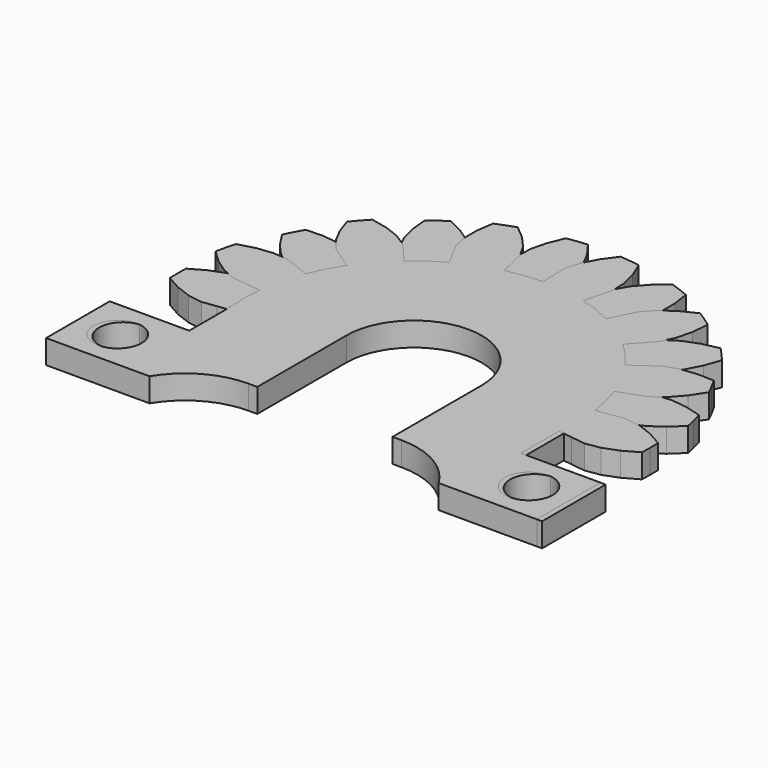
from build123d import *

# Parameters (mm, degrees)
F1_DEPTH  = 1.5
F3_DEPTH  = 1.5
F4_W      = 6.004848
F4_H      = 1.5
F4_W_2    = 6.339723
F5_DEPTH  = 8
F6_W      = 5
F6_H      = 1.5
F7_DEPTH  = 5
F8_R      = 1.5
F9_DEPTH  = 1.5
F10_W     = 5
F10_H     = 5
F10_R     = 1.5
F11_DEPTH = 1.5
F13_DEPTH = 1.5


with BuildPart() as f1:
    # F0 (on Top) → F1 (new body)
    with BuildSketch(Plane.XY):
        Polygon((10.589723, -1.110145), (10.648575, 0), (10.589723, 1.110145), (11.484679, 1.205301), (12.378936, 1.30701), (13.242702, 1.66848), (14.069737, 2.238581), (14.851424, 2.970895), (14.712702, 3.589735), (14.547945, 4.202158), (13.515472, 4.487322), (12.51823, 4.607779), (11.58542, 4.526432), (10.746328, 4.200909), (9.909663, 3.869259), (9.445863, 4.879593), (8.877842, 5.835228), (9.626065, 6.335391), (10.370624, 6.841032), (10.967468, 7.56251), (11.434831, 8.451652), (11.786658, 9.463352), (11.376236, 9.94684), (10.945744, 10.412547), (9.899012, 10.185233), (8.960019, 9.828451), (8.17186, 9.322923), (7.580159, 8.644742), (6.993455, 7.962262), (6.113255, 8.641331), (5.166192, 9.223531), (5.596273, 10.014119), (6.020563, 10.807856), (6.213755, 11.72406), (6.21438, 12.728551), (6.055747, 13.787869), (5.467648, 14.025244), (4.870041, 14.237547), (4.048845, 13.54983), (3.383212, 12.797544), (2.920263, 11.983645), (2.711504, 11.108168), (2.509167, 10.231207), (1.41421, 10.423443), (0.305065, 10.498834), (0.318479, 11.398734), (0.325301, 12.29873), (0.070583, 13.19977), (-0.395674, 14.089492), (-1.028426, 14.953751), (-1.659475, 14.890633), (-2.287292, 14.800897), (-2.694828, 13.810324), (-2.934611, 12.834873), (-2.966295, 11.899058), (-2.744287, 11.026847), (-2.515903, 10.156306), (-3.574776, 9.817671), (-4.591911, 9.36898), (-4.998239, 10.172036), (-5.410447, 10.972114), (-6.054722, 11.651571), (-6.881047, 12.222701), (-7.842962, 12.693909), (-8.372396, 12.344758), (-8.886598, 11.973539), (-8.787111, 10.90704), (-8.546113, 9.931888), (-8.139273, 9.088541), (-7.537358, 8.419408), (-6.930574, 7.754718), (-7.710788, 6.962788), (-8.402899, 6.092806), (-9.135883, 6.615047), (-9.87269, 7.131918), (-10.758927, 7.434137), (-11.756018, 7.555836), (-12.826734, 7.526046), (-13.133265, 6.970848), (-13.416055, 6.403188), (-12.832336, 5.505084), (-12.165768, 4.753627), (-11.413606, 4.195948), (-10.569675, 3.883184), (-9.723497, 3.576617), (-10.046314, 2.512814), (-10.254848, 1.420844), (-11.14657, 1.54263), (-12.039182, 1.657886), (-12.964354, 1.513633), (-13.903791, 1.15802), (-14.838018, 0.634056), (-14.851425, 0), (-14.838018, -0.634056), (-13.903791, -1.15802), (-12.964354, -1.513633), (-12.039182, -1.657886), (-11.14657, -1.54263), (-10.254848, -1.420844), (-10.046314, -2.512814), (-9.723497, -3.576617), (-10.569675, -3.883184), (-11.413606, -4.195948), (-12.165768, -4.753627), (-12.832336, -5.505084), (-13.416055, -6.403188), (-13.133265, -6.970848), (-12.826734, -7.526046), (-11.756018, -7.555836), (-10.758927, -7.434137), (-9.87269, -7.131918), (-9.135883, -6.615047), (-8.402899, -6.092806), (-7.710788, -6.962788), (-6.930574, -7.754718), (-7.537358, -8.419408), (-8.139273, -9.088541), (-8.546113, -9.931888), (-8.787111, -10.90704), (-8.886598, -11.973539), (-8.372396, -12.344758), (-7.842962, -12.693909), (-6.881047, -12.222701), (-6.054722, -11.651571), (-5.410447, -10.972114), (-4.998239, -10.172036), (-4.591911, -9.36898), (-3.574776, -9.817671), (-2.515903, -10.156306), (-2.744287, -11.026847), (-2.966295, -11.899058), (-2.934611, -12.834873), (-2.694828, -13.810324), (-2.287292, -14.800897), (-1.659475, -14.890633), (-1.028426, -14.953751), (-0.395674, -14.089492), (0.070583, -13.19977), (0.325301, -12.29873), (0.318479, -11.398734), (0.305065, -10.498834), (1.41421, -10.423443), (2.509167, -10.231207), (2.711504, -11.108168), (2.920263, -11.983645), (3.383212, -12.797544), (4.048845, -13.54983), (4.870041, -14.237547), (5.467648, -14.025244), (6.055747, -13.787869), (6.21438, -12.728551), (6.213755, -11.72406), (6.020563, -10.807856), (5.596273, -10.014119), (5.166192, -9.223531), (6.113255, -8.641331), (6.993455, -7.962262), (7.580159, -8.644742), (8.17186, -9.322923), (8.960019, -9.828451), (9.899012, -10.185233), (10.945744, -10.412547), (11.376236, -9.94684), (11.786658, -9.463352), (11.434831, -8.451652), (10.967468, -7.56251), (10.370624, -6.841032), (9.626065, -6.335391), (8.877842, -5.835228), (9.445863, -4.879593), (9.909663, -3.869259), (10.746328, -4.200909), (11.58542, -4.526432), (12.51823, -4.607779), (13.515472, -4.487322), (14.547945, -4.202158), (14.712702, -3.589735), (14.851424, -2.970895), (14.069737, -2.238581), (13.242702, -1.66848), (12.378936, -1.30701), (11.484679, -1.205301), align=None)
    extrude(amount=F1_DEPTH)

    # F2 (on face) → F3 (cut, through all)
    with BuildSketch(Plane.XY.offset(1.5)):
        with BuildLine():
            Line((4.25, -1.420844), (4.25, 0))
            ThreePointArc((4.25, 0), (0, 4.25), (-4.25, 0))
            Line((-4.25, 0), (-4.25, -1.420844))
            Line((-4.25, -1.420844), (-10.254848, -1.420844))
            Line((-10.254848, -1.420844), (-10.046314, -2.512814))
            Line((-10.046314, -2.512814), (-9.723497, -3.576617))
            Line((-9.723497, -3.576617), (-10.569675, -3.883184))
            Line((-10.569675, -3.883184), (-11.413606, -4.195948))
            Line((-11.413606, -4.195948), (-12.165768, -4.753627))
            Line((-12.165768, -4.753627), (-12.832336, -5.505084))
            Line((-12.832336, -5.505084), (-13.416055, -6.403188))
            Line((-13.416055, -6.403188), (-13.133265, -6.970848))
            Line((-13.133265, -6.970848), (-12.826734, -7.526046))
            Line((-12.826734, -7.526046), (-11.756018, -7.555836))
            Line((-11.756018, -7.555836), (-10.758927, -7.434137))
            Line((-10.758927, -7.434137), (-9.87269, -7.131918))
            Line((-9.87269, -7.131918), (-9.135883, -6.615047))
            Line((-9.135883, -6.615047), (-8.402899, -6.092806))
            Line((-8.402899, -6.092806), (-7.710788, -6.962788))
            Line((-7.710788, -6.962788), (-6.930574, -7.754718))
            Line((-6.930574, -7.754718), (-7.537358, -8.419408))
            Line((-7.537358, -8.419408), (-8.139273, -9.088541))
            Line((-8.139273, -9.088541), (-8.546113, -9.931888))
            Line((-8.546113, -9.931888), (-8.787111, -10.90704))
            Line((-8.787111, -10.90704), (-8.886598, -11.973539))
            Line((-8.886598, -11.973539), (-8.372396, -12.344758))
            Line((-8.372396, -12.344758), (-7.842962, -12.693909))
            Line((-7.842962, -12.693909), (-6.881047, -12.222701))
            Line((-6.881047, -12.222701), (-6.054722, -11.651571))
            Line((-6.054722, -11.651571), (-5.410447, -10.972114))
            Line((-5.410447, -10.972114), (-4.998239, -10.172036))
            Line((-4.998239, -10.172036), (-4.591911, -9.36898))
            Line((-4.591911, -9.36898), (-3.574776, -9.817671))
            Line((-3.574776, -9.817671), (-2.515903, -10.156306))
            Line((-2.515903, -10.156306), (-2.744287, -11.026847))
            Line((-2.744287, -11.026847), (-2.966295, -11.899058))
            Line((-2.966295, -11.899058), (-2.934611, -12.834873))
            Line((-2.934611, -12.834873), (-2.694828, -13.810324))
            Line((-2.694828, -13.810324), (-2.287292, -14.800897))
            Line((-2.287292, -14.800897), (-1.659475, -14.890633))
            Line((-1.659475, -14.890633), (-1.028426, -14.953751))
            Line((-1.028426, -14.953751), (-0.395674, -14.089492))
            Line((-0.395674, -14.089492), (0.070583, -13.19977))
            Line((0.070583, -13.19977), (0.325301, -12.29873))
            Line((0.325301, -12.29873), (0.318479, -11.398734))
            Line((0.318479, -11.398734), (0.305065, -10.498834))
            Line((0.305065, -10.498834), (1.41421, -10.423443))
            Line((1.41421, -10.423443), (2.509167, -10.231207))
            Line((2.509167, -10.231207), (2.711504, -11.108168))
            Line((2.711504, -11.108168), (2.920263, -11.983645))
            Line((2.920263, -11.983645), (3.383212, -12.797544))
            Line((3.383212, -12.797544), (4.048845, -13.54983))
            Line((4.048845, -13.54983), (4.870041, -14.237547))
            Line((4.870041, -14.237547), (5.467648, -14.025244))
            Line((5.467648, -14.025244), (6.055747, -13.787869))
            Line((6.055747, -13.787869), (6.21438, -12.728551))
            Line((6.21438, -12.728551), (6.213755, -11.72406))
            Line((6.213755, -11.72406), (6.020563, -10.807856))
            Line((6.020563, -10.807856), (5.596273, -10.014119))
            Line((5.596273, -10.014119), (5.166192, -9.223531))
            Line((5.166192, -9.223531), (6.113255, -8.641331))
            Line((6.113255, -8.641331), (6.993455, -7.962262))
            Line((6.993455, -7.962262), (7.580159, -8.644742))
            Line((7.580159, -8.644742), (8.17186, -9.322923))
            Line((8.17186, -9.322923), (8.960019, -9.828451))
            Line((8.960019, -9.828451), (9.899012, -10.185233))
            Line((9.899012, -10.185233), (10.945744, -10.412547))
            Line((10.945744, -10.412547), (11.376236, -9.94684))
            Line((11.376236, -9.94684), (11.786658, -9.463352))
            Line((11.786658, -9.463352), (11.434831, -8.451652))
            Line((11.434831, -8.451652), (10.967468, -7.56251))
            Line((10.967468, -7.56251), (10.370624, -6.841032))
            Line((10.370624, -6.841032), (9.626065, -6.335391))
            Line((9.626065, -6.335391), (8.877842, -5.835228))
            Line((8.877842, -5.835228), (9.445863, -4.879593))
            Line((9.445863, -4.879593), (9.909663, -3.869259))
            Line((9.909663, -3.869259), (10.746328, -4.200909))
            Line((10.746328, -4.200909), (11.58542, -4.526432))
            Line((11.58542, -4.526432), (12.51823, -4.607779))
            Line((12.51823, -4.607779), (13.515472, -4.487322))
            Line((13.515472, -4.487322), (14.547945, -4.202158))
            Line((14.547945, -4.202158), (14.712702, -3.589735))
            Line((14.712702, -3.589735), (14.851424, -2.970895))
            Line((14.851424, -2.970895), (14.069737, -2.238581))
            Line((14.069737, -2.238581), (13.242702, -1.66848))
            Line((13.242702, -1.66848), (12.378936, -1.30701))
            Line((12.378936, -1.30701), (11.484679, -1.205301))
            Line((11.484679, -1.205301), (10.589723, -1.110145))
            Line((10.589723, -1.110145), (10.589723, -1.420844))
            Line((10.589723, -1.420844), (4.25, -1.420844))
        make_face()
    extrude(amount=-F3_DEPTH, mode=Mode.SUBTRACT)

    # F4 (on face) → F5 (join)
    with BuildSketch(Plane.XZ.offset(1.420844)):
        with Locations((-7.252424, 0.75)):
            Rectangle(F4_W, F4_H)
        with Locations((7.4198615, 0.75)):
            Rectangle(F4_W_2, F4_H)
    extrude(amount=F5_DEPTH)

    # F6 (on face) → F7 (join)
    with BuildSketch(Plane.YZ.offset(10.589723)):
        with Locations((-6.920844, 0.75)):
            Rectangle(F6_W, F6_H)
    extrude(amount=F7_DEPTH)

    # F8 (on face) → F9 (cut, through all)
    with BuildSketch(Plane(origin=(0, 0, 0), x_dir=(1, 0, 0), z_dir=(0, 0, -1))):
        with Locations((13.089723, 6.920844)):
            Circle(F8_R)
    extrude(amount=-F9_DEPTH, mode=Mode.SUBTRACT)

    # F10 (on Top) → F11 (join)
    with BuildSketch(Plane.XY):
        with Locations((-12.754848, -6.920844)):
            Rectangle(F10_W, F10_H)
        with Locations((-12.754848, -6.920844)):
            Circle(F10_R, mode=Mode.SUBTRACT)
    extrude(amount=F11_DEPTH)

    # F12 (on face) → F13 (cut, through all)
    with BuildSketch(Plane.XY.offset(1.5)):
        with BuildLine():
            Line((-4.25, -7), (-4.8, -7))
            ThreePointArc((-4.8, -7), (-7.2601036564, -7.6470825875), (-9.0834512169, -9.420844))
            Line((-9.0834512169, -9.420844), (-4.25, -9.420844))
            Line((-4.25, -9.420844), (-4.25, -7))
        make_face()
        with BuildLine():
            Line((4.8, -7), (4.25, -7))
            Line((4.25, -7), (4.25, -9.420844))
            Line((4.25, -9.420844), (9.0834512169, -9.420844))
            ThreePointArc((9.0834512169, -9.420844), (7.2601036564, -7.6470825875), (4.8, -7))
        make_face()
    extrude(amount=-F13_DEPTH, mode=Mode.SUBTRACT)


with BuildPart() as f14_1:
    # F14: instance of F1
    add(f1.part.mirror(Plane.YZ))


solid = Compound([f1.part, f14_1.part])
